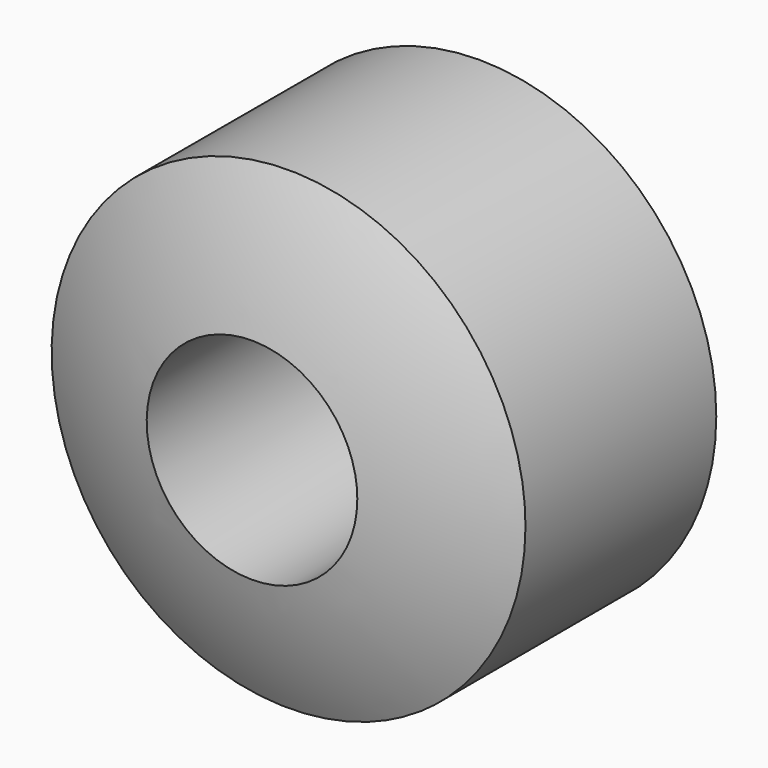
from build123d import *

# Parameters (mm, degrees)
F2_R          = 54.440335
F2_R_2        = 14.2875
F3_DEPTH      = 31.751
F3_DEPTH_BACK = 31.751
F5_R          = 26.997045
F6_DEPTH      = 45.721
F7_R          = 6.35
F8_DEPTH      = 17.781


with BuildPart() as f1:
    # F0 (on Top) → F1 (revolve)
    with BuildSketch(Plane.XY):
        with BuildLine():
            ThreePointArc((0, -31.75), (22.45064, -22.45064), (31.75, 0))
            ThreePointArc((31.75, 0), (22.45064, 22.45064), (0, 31.75))
            Line((0, 31.75), (0, -31.75))
        make_face()
    revolve(axis=Axis((0, 0, 0), (0, -1, 0)))

    # F2 (on Front) → F3 (cut, two sides)
    with BuildSketch(Plane.XZ) as f3_sk:
        Circle(F2_R)
        Circle(F2_R_2, mode=Mode.SUBTRACT)
    extrude(amount=F3_DEPTH, mode=Mode.SUBTRACT)
    extrude(f3_sk.sketch, amount=-F3_DEPTH_BACK, mode=Mode.SUBTRACT)

    # F5 (on offset) → F6 (cut, through all)
    with BuildSketch(Plane.XZ.offset(13.97)):
        Circle(F5_R)
    extrude(amount=-F6_DEPTH, mode=Mode.SUBTRACT)

    # F7 (on offset) → F8 (cut, through all)
    with BuildSketch(Plane.XZ.offset(13.97)):
        Circle(F7_R)
    extrude(amount=F8_DEPTH, mode=Mode.SUBTRACT)


solid = f1.part
